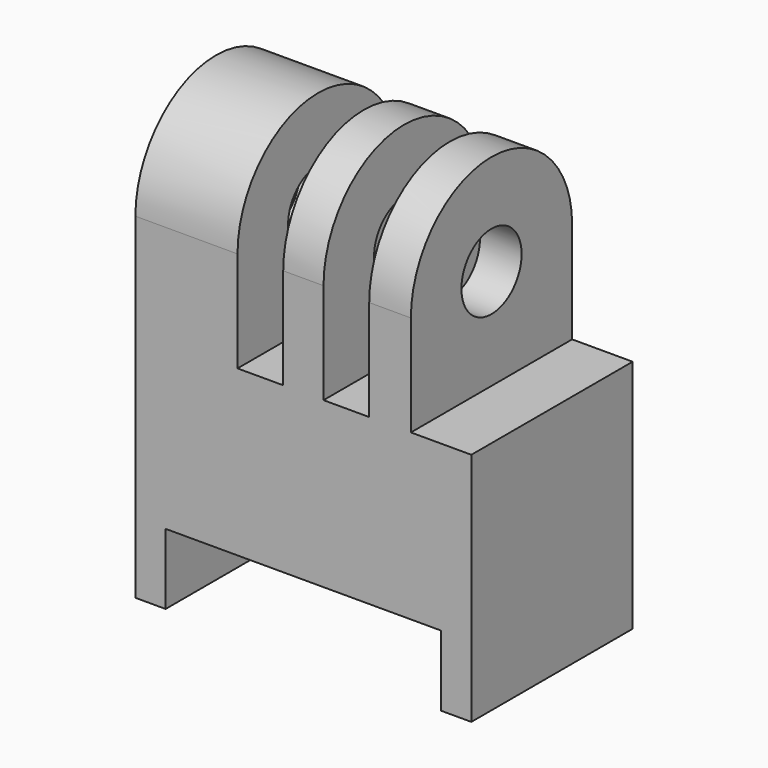
from build123d import *

# Parameters (mm, degrees)
SKETCH009_R     = 2.8
PAD_DEPTH       = 12.5
SKETCH015_W     = 20.5
SKETCH015_H     = 10.5
SKETCH015_W_2   = 3.4
SKETCH015_H_2   = 15
SKETCH015_W_3   = 15
POCKET_DEPTH    = 15
POCKET001_DEPTH = 4


with BuildPart() as part:
    # Sketch009 → Pad (new body, symmetric)
    with BuildSketch(Plane.YZ):
        with BuildLine():
            Line((7.5, 25), (7.5, 0))
            Line((-7.5, 0), (7.5, 0))
            Line((-7.5, 0), (-7.5, 25))
            ThreePointArc((7.5, 25), (0, 32.5), (-7.5, 25))
        make_face()
        with Locations((0, 25)):
            Circle(SKETCH009_R, mode=Mode.SUBTRACT)
    extrude(amount=PAD_DEPTH, both=True)

    # Sketch015 → Pocket (cut, symmetric)
    with BuildSketch(Plane.XZ):
        Rectangle(SKETCH015_W, SKETCH015_H)
        with Locations((3.2, 25)):
            Rectangle(SKETCH015_W_2, SKETCH015_H_2)
        with Locations((15.5, 25)):
            Rectangle(SKETCH015_W_3, SKETCH015_H_2)
        with Locations((-3.2, 25)):
            Rectangle(SKETCH015_W_2, SKETCH015_H_2)
    extrude(amount=POCKET_DEPTH, both=True, mode=Mode.SUBTRACT)

    # Sketch016 → Pocket001 (cut)
    with BuildSketch(Plane.YZ.offset(-12.5)):
        Polygon((-2.45, 20.756476), (2.45, 20.756476), (4.9, 25), (2.45, 29.243524), (-2.45, 29.243524), (-4.9, 25), align=None)
    extrude(amount=POCKET001_DEPTH, mode=Mode.SUBTRACT)


solid = part.part
